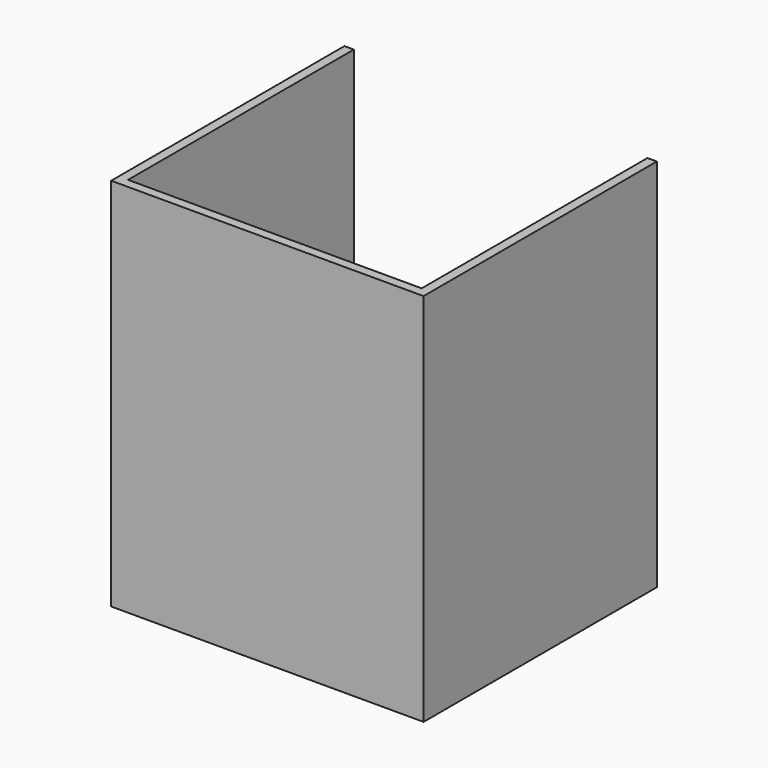
from build123d import *

# Parameters (mm, degrees)
F0_W     = 60.619533062
F0_H     = 48.4413802624
F1_DEPTH = 560
F2_DEPTH = 600
F3_DEPTH = 720
F4_T     = -18


with BuildPart() as f1:
    # F0 (on Front) → F1 (new body)
    with BuildSketch(Plane.XZ):
        with Locations((30.309766531, 24.2206901312)):
            Rectangle(F0_W, F0_H)
    extrude(amount=-F1_DEPTH)

    # F2 (add): a face of the model
    f2_faces = [f1.faces().sort_by_distance(p)[0] for p in [
        (0, 280, 24.2206901312),
    ]]
    extrude(f2_faces, amount=-F2_DEPTH)

    # F3 (add): a face of the model
    f3_faces = [f1.faces().sort_by_distance(p)[0] for p in [
        (300, 280, 0),
    ]]
    extrude(f3_faces, amount=-F3_DEPTH)

    # F4
    f4_openings = [f1.faces().sort_by_distance(p)[0] for p in [
        (300, 560, 360),
        (300, 280, 720),
    ]]
    offset(amount=F4_T, openings=f4_openings)


solid = f1.part
